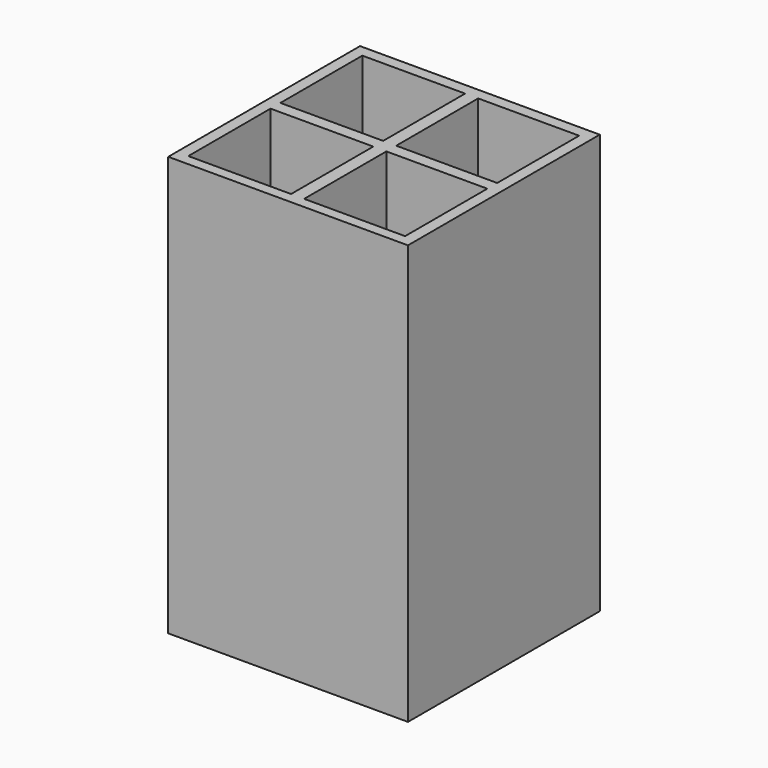
from build123d import *

# Parameters (mm, degrees)
F0_W     = 50.8
F0_H     = 50.8
F1_DEPTH = 88.9
F2_W     = 21.774474
F2_H     = 21.774474
F2_W_2   = 21.389768
F2_H_2   = 21.697533
F3_DEPTH = 79.375
F2_W_3   = 21.082
F4_DEPTH = 86.36
F5_W     = 0.692474
F5_H     = 21.697533
F6_DEPTH = 79.375


with BuildPart() as f1:
    # F0 (on Top) → F1 (new body)
    with BuildSketch(Plane.XY):
        Rectangle(F0_W, F0_H)
    extrude(amount=F1_DEPTH)

    # F2 (on face) → F3 (cut)
    with BuildSketch(Plane.XY.offset(88.9)):
        with Locations((-12.079832, -12.233618)):
            Rectangle(F2_W, F2_H)
        with Locations((12.272187, -12.233618)):
            Rectangle(F2_W_2, F2_H)
        with Locations((12.272187, 12.1184)):
            Rectangle(F2_W_2, F2_H_2)
    extrude(amount=-F3_DEPTH, mode=Mode.SUBTRACT)

    # F2 (on face) → F4 (cut)
    with BuildSketch(Plane.XY.offset(88.9)):
        with Locations((-12.426069, 12.1184)):
            Rectangle(F2_W_3, F2_H_2)
        with Locations((-12.079832, -12.233618)):
            Rectangle(F2_W, F2_H)
        with Locations((12.272187, -12.233618)):
            Rectangle(F2_W_2, F2_H)
        with Locations((12.272187, 12.1184)):
            Rectangle(F2_W_2, F2_H_2)
    extrude(amount=-F4_DEPTH, mode=Mode.SUBTRACT)

    # F5 (on face) → F6 (cut)
    with BuildSketch(Plane.XY.offset(88.9)):
        with Locations((-1.538832, 12.1184)):
            Rectangle(F5_W, F5_H)
    extrude(amount=-F6_DEPTH, mode=Mode.SUBTRACT)


solid = f1.part
